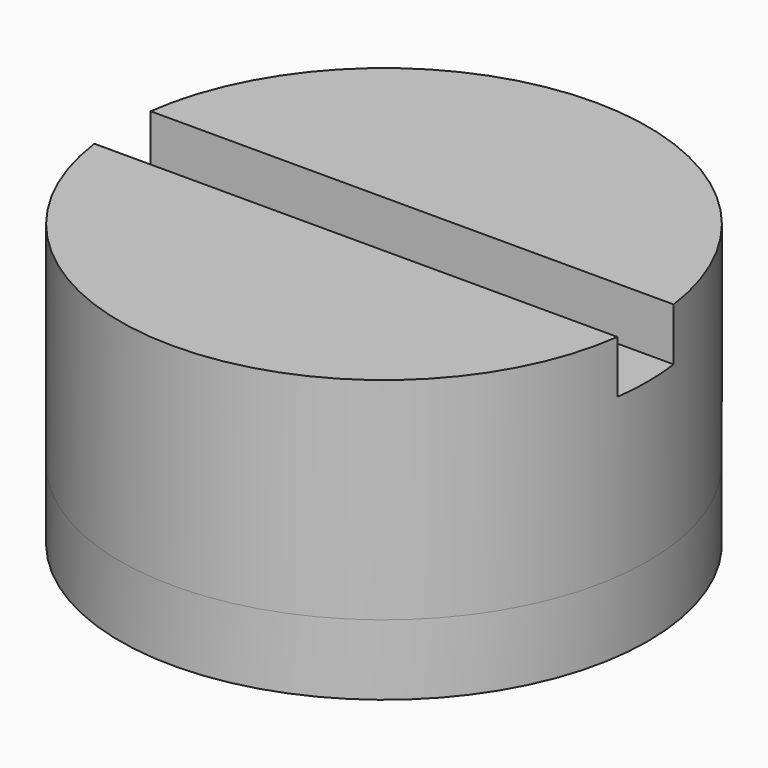
from build123d import *

# Parameters (mm, degrees)
SKETCH_R        = 7.5
SKETCH_R_2      = 2.3
PAD_DEPTH       = 2
SKETCH001_R     = 7.5
PAD001_DEPTH    = 6
SKETCH002_W     = 8
SKETCH002_H     = 8
POCKET_DEPTH    = 3
SKETCH003_W     = 26.953154
SKETCH003_H     = 2
POCKET001_DEPTH = 3.5


with BuildPart() as part:
    # Sketch → Pad (new body)
    with BuildSketch(Plane.XY):
        Circle(SKETCH_R)
        Circle(SKETCH_R_2, mode=Mode.SUBTRACT)
    extrude(amount=-PAD_DEPTH)

    # Sketch001 → Pad001 (join)
    with BuildSketch(Plane.XY):
        Circle(SKETCH001_R)
    extrude(amount=PAD001_DEPTH)

    # Sketch002 → Pocket (cut)
    with BuildSketch(Plane.XY):
        Rectangle(SKETCH002_W, SKETCH002_H)
    extrude(amount=POCKET_DEPTH, mode=Mode.SUBTRACT)

    # Sketch003 (on DatumPlane) → Pocket001 (cut, symmetric)
    with BuildSketch(Plane.XY.offset(8)):
        Rectangle(SKETCH003_W, SKETCH003_H)
    extrude(amount=POCKET001_DEPTH, both=True, mode=Mode.SUBTRACT)


solid = part.part
